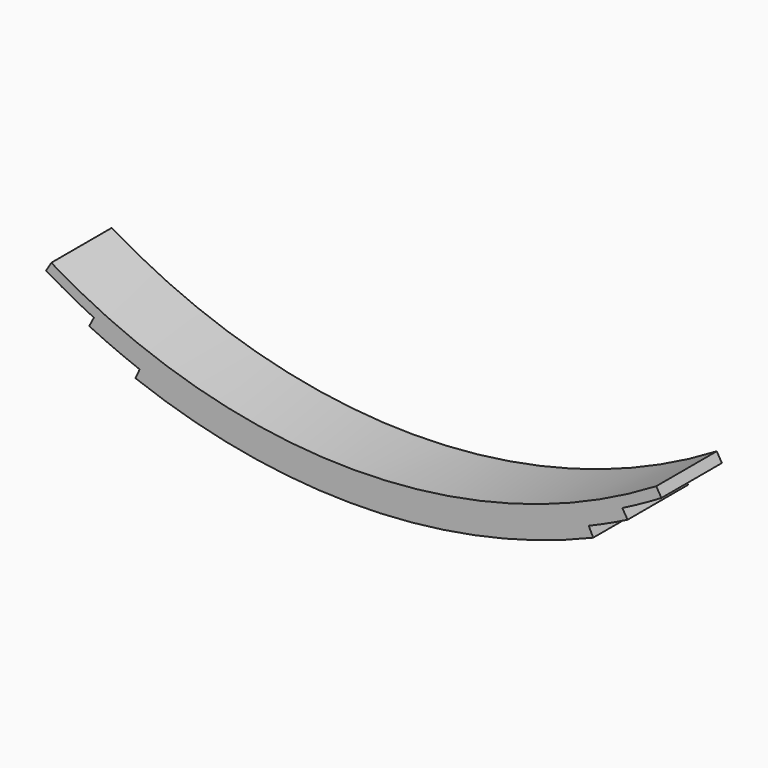
from build123d import *

# Parameters (mm, degrees)
F1_DEPTH = 75


with BuildPart() as f1:
    # F0 (on Front) → F1 (new body)
    with BuildSketch(Plane.XZ):
        with BuildLine():
            ThreePointArc((233.020331, -56.316324), (11.13377, -103.106166), (-212.330451, -64.54871))
            Line((-212.330451, -64.54871), (-216.468156, -73.675685))
            ThreePointArc((-216.468156, -73.675685), (11.327825, -113.104287), (237.509549, -65.27698))
            Line((237.509549, -65.27698), (233.020331, -56.316324))
        make_face()
        with BuildLine():
            ThreePointArc((266.345782, -29.958453), (4.809679, -93.189537), (-257.718636, -34.213378))
            Line((-257.718636, -34.213378), (-262.368917, -43.072499))
            ThreePointArc((-262.368917, -43.072499), (-237.592465, -54.376272), (-212.330451, -64.54871))
            ThreePointArc((-212.330451, -64.54871), (11.13377, -103.106166), (233.020331, -56.316324))
            ThreePointArc((233.020331, -56.316324), (252.487762, -47.743164), (271.64038, -38.488046))
            Line((271.64038, -38.488046), (266.345782, -29.958453))
        make_face()
        with BuildLine():
            ThreePointArc((300, 0), (0, -83.209062), (-300, 0))
            Line((-300, 0), (-305.151002, -8.5713))
            ThreePointArc((-305.151002, -8.5713), (-281.726705, -21.932266), (-257.718636, -34.213378))
            ThreePointArc((-257.718636, -34.213378), (4.809679, -93.189537), (266.345782, -29.958453))
            ThreePointArc((266.345782, -29.958453), (285.948415, -19.627802), (305.151002, -8.5713))
            Line((305.151002, -8.5713), (300, 0))
        make_face()
    extrude(amount=F1_DEPTH)


solid = f1.part
